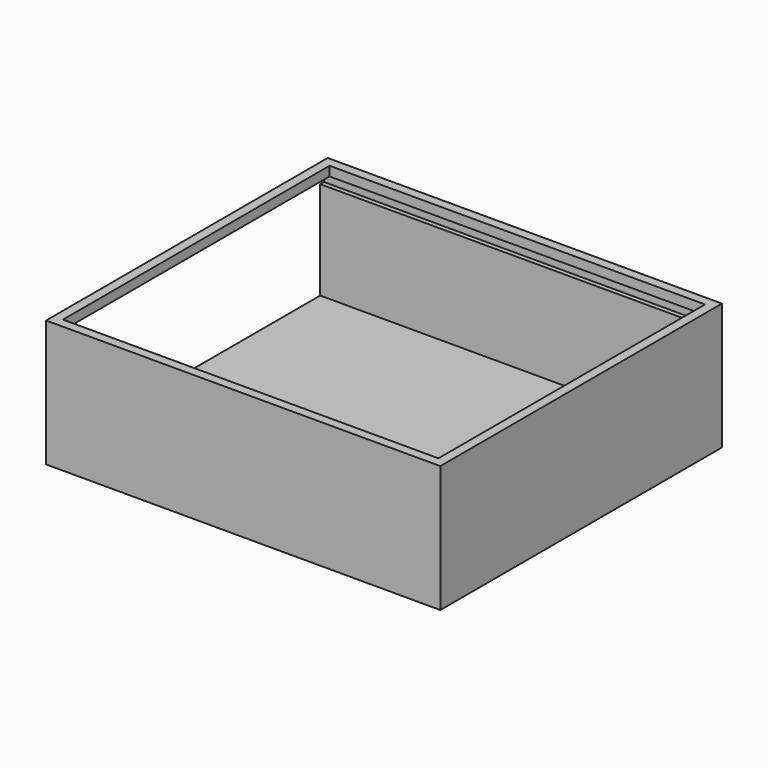
from build123d import *

# Parameters (mm, degrees)
F0_W     = 84
F0_H     = 75
F1_DEPTH = 2
F2_W     = 84
F2_H     = 75
F2_W_2   = 80
F2_H_2   = 71
F3_DEPTH = 25
F4_W     = 73
F4_H     = 2.1
F5_DEPTH = 83
F6_W     = 71
F6_H     = 20.9
F7_DEPTH = 2


with BuildPart() as f1:
    # F0 (on Top) → F1 (new body)
    with BuildSketch(Plane.XY):
        with Locations((-2.925097, 5.706407)):
            Rectangle(F0_W, F0_H)
    extrude(amount=-F1_DEPTH)

    # F2 (on face) → F3 (join)
    with BuildSketch(Plane.XY):
        with Locations((-2.925097, 5.706407)):
            Rectangle(F2_W, F2_H)
        with Locations((-2.925097, 5.706407)):
            Rectangle(F2_W_2, F2_H_2, mode=Mode.SUBTRACT)
    extrude(amount=F3_DEPTH)

    # F4 (on face) → F5 (cut)
    with BuildSketch(Plane(origin=(-44.925097, 0, 0), x_dir=(0, -1, 0), z_dir=(-1, 0, 0))):
        with Locations((-5.706407, 21.95)):
            Rectangle(F4_W, F4_H)
    extrude(amount=-F5_DEPTH, mode=Mode.SUBTRACT)

    # F6 (on face) → F7 (cut)
    with BuildSketch(Plane(origin=(-44.925097, 0, 0), x_dir=(0, -1, 0), z_dir=(-1, 0, 0))):
        with Locations((-5.706407, 10.45)):
            Rectangle(F6_W, F6_H)
    extrude(amount=-F7_DEPTH, mode=Mode.SUBTRACT)


solid = f1.part
